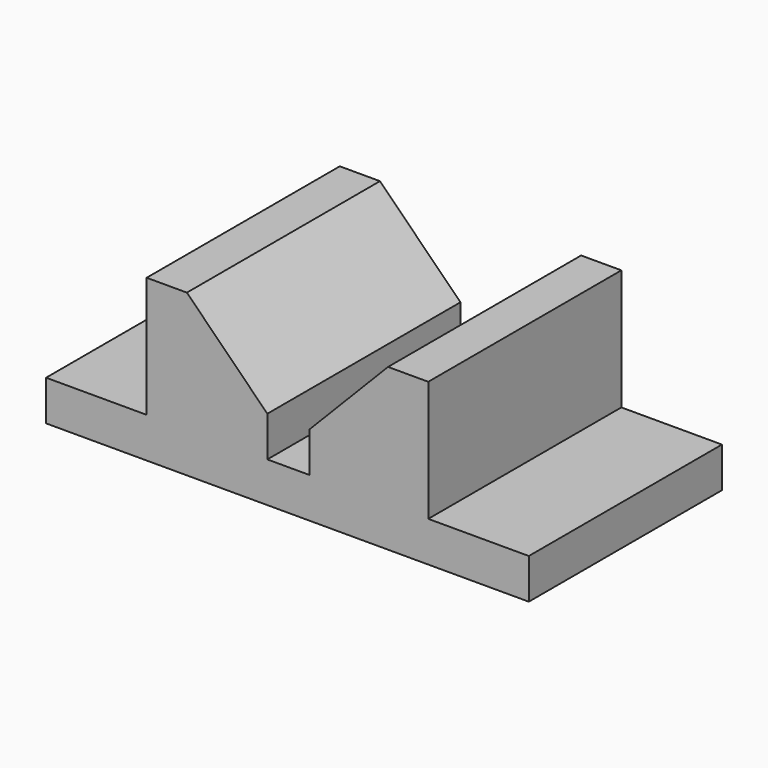
from build123d import *

# Parameters (mm, degrees)
F0_W     = 152.4
F0_H     = 50.8
F1_DEPTH = 76.2
F2_W     = 31.75
F2_H     = 38.1
F3_DEPTH = 131.826


with BuildPart() as f1:
    # F0 (on Front) → F1 (new body)
    with BuildSketch(Plane.XZ):
        with Locations((-76.2, 25.4)):
            Rectangle(F0_W, F0_H)
    extrude(amount=F1_DEPTH)

    # F2 (on face) → F3 (cut)
    with BuildSketch(Plane.XZ.offset(76.2)):
        with Locations((-136.525, 31.75)):
            Rectangle(F2_W, F2_H)
        Polygon((-82.55, 25.4), (-82.55, 12.7), (-69.215, 12.7), (-69.215, 25.4), (-44.45, 50.8), (-107.95, 50.8), align=None)
        with Locations((-15.875, 31.75)):
            Rectangle(F2_W, F2_H)
    extrude(amount=-F3_DEPTH, mode=Mode.SUBTRACT)


solid = f1.part
